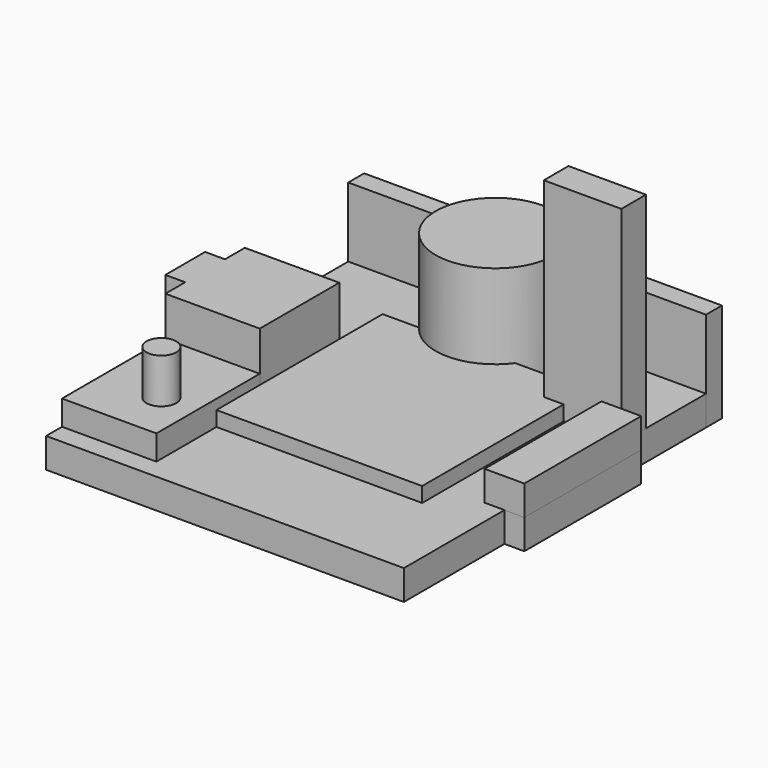
from build123d import *

# Parameters (mm, degrees)
BOX002_W          = 2
BOX002_H          = 12.65
BOX002_DEPTH      = 10
BOX001_W          = 2
BOX001_H          = 17.5
BOX001_DEPTH      = 10
BOX_W             = 40
BOX_H             = 40
BOX_DEPTH         = 3
BOX003_W          = 4
BOX003_H          = 14.7
BOX003_DEPTH      = 3
BOX004_W          = 7.8
BOX004_H          = 3.1
BOX004_DEPTH      = 20.7
BOX006_W          = 2
BOX006_H          = 10
BOX006_DEPTH      = 10
BOX005_W          = 11.5
BOX005_H          = 10
BOX005_DEPTH      = 6.5
BOX007_W          = 20.7
BOX007_H          = 20.9
BOX007_DEPTH      = 1.5
CYLINDER_R        = 6
CYLINDER_DEPTH    = 10
CYLINDER001_R     = 1.5
CYLINDER001_DEPTH = 10
BOX008_W          = 36
BOX008_H          = 2
BOX008_DEPTH      = 10
BOX009_W          = 9.5
BOX009_H          = 13
BOX009_DEPTH      = 2.5
EXTRUDE_DEPTH     = 2.5


with BuildPart() as cube002:
    # Box002 → Box002 (new body)
    with BuildSketch(Plane(origin=(38, -10, 0), x_dir=(1, 0, 0), z_dir=(0, 0, 1))):
        with Locations((1, 6.325)):
            Rectangle(BOX002_W, BOX002_H)
    extrude(amount=BOX002_DEPTH)


with BuildPart() as part_mirroring001:
    # Part__Mirroring001: instance of Cube002
    add(cube002.part.mirror(Plane(origin=(0, 0, 0), x_dir=(1, 0, 0), z_dir=(0, 1, 0))))


with BuildPart() as part_mirroring001_1:
    # Part__Mirroring001 placement: moved
    add(part_mirroring001.part.moved(Location((0, 20, 0))))


with BuildPart() as cube001:
    # Box001 → Box001 (new body)
    with BuildSketch(Plane(origin=(0, -10, 0), x_dir=(1, 0, 0), z_dir=(0, 0, 1))):
        with Locations((1, 8.75)):
            Rectangle(BOX001_W, BOX001_H)
    extrude(amount=BOX001_DEPTH)


with BuildPart() as part_mirroring:
    # Part__Mirroring: instance of Cube001
    add(cube001.part.mirror(Plane(origin=(0, 0, 0), x_dir=(1, 0, 0), z_dir=(0, 1, 0))))


with BuildPart() as part_mirroring_1:
    # Part__Mirroring placement: moved
    add(part_mirroring.part.moved(Location((0, 20, 0))))


with BuildPart() as cut003:
    # Box → Box (new body)
    with BuildSketch(Plane(origin=(0, -10, 0), x_dir=(1, 0, 0), z_dir=(0, 0, 1))):
        with Locations((20, 20)):
            Rectangle(BOX_W, BOX_H)
    extrude(amount=BOX_DEPTH)

    # Cut: cut Part__Mirroring
    add(part_mirroring_1.part, mode=Mode.SUBTRACT)

    # Cut001: cut Cube001
    add(cube001.part, mode=Mode.SUBTRACT)

    # Cut002: cut Part__Mirroring001
    add(part_mirroring001_1.part, mode=Mode.SUBTRACT)

    # Cut003: cut Cube002
    add(cube002.part, mode=Mode.SUBTRACT)


with BuildPart() as cube003:
    # Box003 → Box003 (new body)
    with BuildSketch(Plane(origin=(36, 2.65, 3), x_dir=(1, 0, 0), z_dir=(0, 0, 1))):
        with Locations((2, 7.35)):
            Rectangle(BOX003_W, BOX003_H)
    extrude(amount=BOX003_DEPTH)


with BuildPart() as cube004:
    # Box004 → Box004 (new body)
    with BuildSketch(Plane(origin=(30.2, -0.450903, 3), x_dir=(1, 0, 0), z_dir=(0, 0, 1))):
        with Locations((3.9, 1.55)):
            Rectangle(BOX004_W, BOX004_H)
    extrude(amount=BOX004_DEPTH)


with BuildPart() as part_mirroring002:
    # Part__Mirroring002: instance of Cube004
    add(cube004.part.mirror(Plane(origin=(0, 0, 0), x_dir=(1, 0, 0), z_dir=(0, 1, 0))))


with BuildPart() as part_mirroring002_1:
    # Part__Mirroring002 placement: moved
    add(part_mirroring002.part.moved(Location((0, 20, 0))))


with BuildPart() as cube006:
    # Box006 → Box006 (new body)
    with BuildSketch(Plane(origin=(0, -2.5, 0), x_dir=(1, 0, 0), z_dir=(0, 0, 1))):
        with Locations((1, 5)):
            Rectangle(BOX006_W, BOX006_H)
    extrude(amount=BOX006_DEPTH)


with BuildPart() as part_mirroring003:
    # Part__Mirroring003: instance of Cube006
    add(cube006.part.mirror(Plane(origin=(0, 0, 0), x_dir=(1, 0, 0), z_dir=(0, 1, 0))))


with BuildPart() as part_mirroring003_1:
    # Part__Mirroring003 placement: moved
    add(part_mirroring003.part.moved(Location((0, 20, 0))))


with BuildPart() as cut005:
    # Box005 → Box005 (new body)
    with BuildSketch(Plane(origin=(0, 5, 3), x_dir=(1, 0, 0), z_dir=(0, 0, 1))):
        with Locations((5.75, 5)):
            Rectangle(BOX005_W, BOX005_H)
    extrude(amount=BOX005_DEPTH)

    # Cut004: cut Cube006
    add(cube006.part, mode=Mode.SUBTRACT)

    # Cut005: cut Part__Mirroring003
    add(part_mirroring003_1.part, mode=Mode.SUBTRACT)


with BuildPart() as cube007:
    # Box007 → Box007 (new body)
    with BuildSketch(Plane(origin=(11.5, -0.448498, 3), x_dir=(1, 0, 0), z_dir=(0, 0, 1))):
        with Locations((10.35, 10.45)):
            Rectangle(BOX007_W, BOX007_H)
    extrude(amount=BOX007_DEPTH)


with BuildPart() as cylinder:
    # Cylinder → Cylinder (new body)
    with BuildSketch(Plane(origin=(20, -4, 3), x_dir=(1, 0, 0), z_dir=(0, 0, 1))):
        Circle(CYLINDER_R)
    extrude(amount=CYLINDER_DEPTH)


with BuildPart() as part_mirroring004:
    # Part__Mirroring004: instance of Cylinder
    add(cylinder.part.mirror(Plane(origin=(0, 0, 0), x_dir=(1, 0, 0), z_dir=(0, 1, 0))))


with BuildPart() as part_mirroring004_1:
    # Part__Mirroring004 placement: moved
    add(part_mirroring004.part.moved(Location((0, 20, 0))))


with BuildPart() as cylinder001:
    # Cylinder001 → Cylinder001 (new body)
    with BuildSketch(Plane(origin=(8, -3, 0), x_dir=(1, 0, 0), z_dir=(0, 0, 1))):
        Circle(CYLINDER001_R)
    extrude(amount=CYLINDER001_DEPTH)


with BuildPart() as cube008:
    # Box008 → Box008 (new body)
    with BuildSketch(Plane(origin=(2, -10, 0), x_dir=(1, 0, 0), z_dir=(0, 0, 1))):
        with Locations((18, 1)):
            Rectangle(BOX008_W, BOX008_H)
    extrude(amount=BOX008_DEPTH)


with BuildPart() as cube008_mirrored:
    # mirror: instance of Cube008
    add(cube008.part.mirror(Plane(origin=(0, 10, 0), x_dir=(-1, 0, 0), z_dir=(0, -1, 0))))


with BuildPart() as cube009:
    # Box009 → Box009 (new body)
    with BuildSketch(Plane(origin=(2, -8, 3), x_dir=(1, 0, 0), z_dir=(0, 0, 1))):
        with Locations((4.75, 6.5)):
            Rectangle(BOX009_W, BOX009_H)
    extrude(amount=BOX009_DEPTH)


with BuildPart() as extrude_body:
    # Sketch (on Face3 of Cylinder001) → Extrude (new body)
    with BuildSketch(Plane(origin=(8, -3, 0), x_dir=(1, 0, 0), z_dir=(0, 0, -1))):
        Polygon((3.117691, 0), (1.558846, 2.7), (-1.558846, 2.7), (-3.117691, 0), (-1.558846, -2.7), (1.558846, -2.7), align=None)
    extrude(amount=-EXTRUDE_DEPTH)


solid = Compound([cut003.part, cube003.part, part_mirroring002_1.part, cut005.part, cube007.part, part_mirroring004_1.part, cylinder001.part, cube008_mirrored.part, cube009.part, extrude_body.part])
